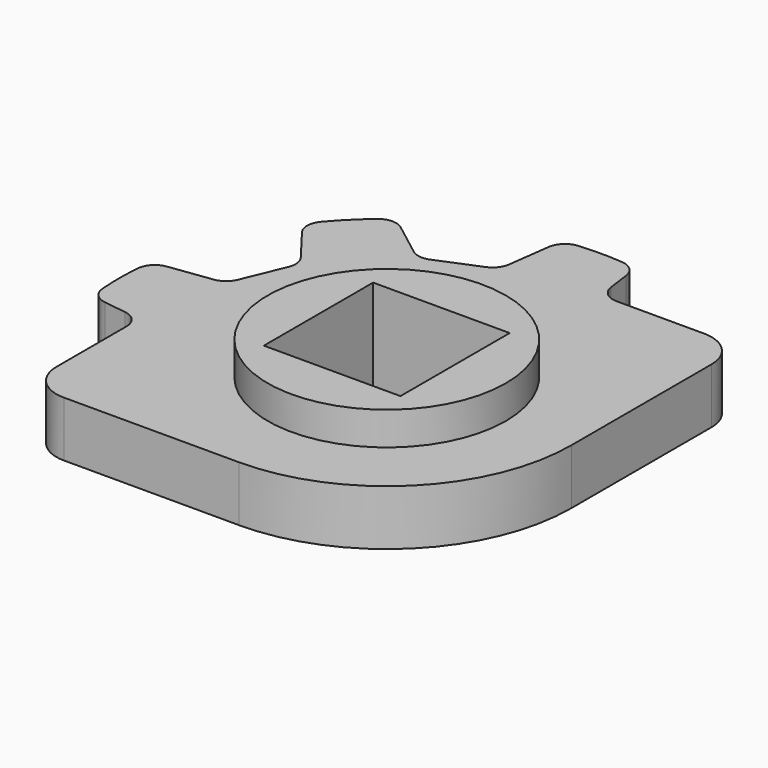
from build123d import *

# Parameters (mm, degrees)
F0_R     = 5.8
F0_W     = 7.4
F0_H     = 7.4
F1_DEPTH = 3.3
F0_R_2   = 6.5
F2_DEPTH = 1.5
F3_R     = 2
F4_R     = 1
F5_R     = 1
F6_R     = 6.45
F6_R_2   = 5.8
F7_DEPTH = 1.8


with BuildPart() as f1:
    # F0 (on Top) → F1 (new body, symmetric)
    with BuildSketch(Plane.XY):
        with Locations((-11.810101, -3.645376)):
            Circle(F0_R)
        with Locations((-11.810101, -3.645376)):
            Rectangle(F0_W, F0_H, mode=Mode.SUBTRACT)
    extrude(amount=F1_DEPTH, both=True)

    # F0 (on Top) → F2 (join, symmetric)
    with BuildSketch(Plane.XY):
        with BuildLine():
            Line((-22.810101, -13.645376), (-11.810101, -13.645376))
            ThreePointArc((-11.810101, -13.645376), (-4.739033, -10.716444), (-1.810101, -3.645376))
            Line((-1.810101, -3.645376), (-1.810101, 7.354624))
            Line((-1.810101, 7.354624), (-1.810101, 7.854624))
            Line((-1.810101, 7.854624), (-9.43136, 7.854624))
            Line((-9.43136, 7.854624), (-9.814863, 10.716693))
            ThreePointArc((-9.814863, 10.716693), (-11.810101, 10.854624), (-13.805339, 10.716693))
            Line((-13.805339, 10.716693), (-14.293907, 7.070533))
            Line((-14.293907, 7.070533), (-17.631077, 5.688232))
            Line((-17.631077, 5.688232), (-20.554771, 7.920986))
            ThreePointArc((-20.554771, 7.920986), (-22.063149, 6.607672), (-23.376464, 5.099294))
            Line((-23.376464, 5.099294), (-21.143709, 2.175599))
            Line((-21.143709, 2.175599), (-22.52601, -1.16157))
            Line((-22.52601, -1.16157), (-26.17217, -1.650138))
            ThreePointArc((-26.17217, -1.650138), (-26.310101, -3.645376), (-26.17217, -5.640615))
            Line((-26.17217, -5.640615), (-23.310101, -6.024118))
            Line((-23.310101, -6.024118), (-23.310101, -13.645376))
            Line((-23.310101, -13.645376), (-22.810101, -13.645376))
        make_face()
        with Locations((-11.810101, -3.645376)):
            Circle(F0_R_2, mode=Mode.SUBTRACT)
        with Locations((-11.810101, -3.645376)):
            Circle(F0_R_2)
        with Locations((-11.810101, -3.645376)):
            Circle(F0_R, mode=Mode.SUBTRACT)
    extrude(amount=F2_DEPTH, both=True)

    # F3
    f3_edges = [f1.edges().sort_by_distance(p)[0] for p in [
        (-23.310101, -13.645376, 0),
        (-1.810101, 7.854624, 0),
    ]]
    fillet(f3_edges, radius=F3_R)

    # F4
    f4_edges = [f1.edges().sort_by_distance(p)[0] for p in [
        (-26.17217, -5.640615, 0),
        (-26.17217, -1.650138, 0),
        (-23.376464, 5.099294, 0),
        (-20.554771, 7.920986, 0),
        (-13.805339, 10.716693, 0),
        (-9.814863, 10.716693, 0),
    ]]
    fillet(f4_edges, radius=F4_R)

    # F5
    f5_edges = [f1.edges().sort_by_distance(p)[0] for p in [
        (-23.310101, -6.024118, 0),
        (-22.52601, -1.16157, 0),
        (-21.143709, 2.175599, 0),
        (-17.631077, 5.688232, 0),
        (-14.293907, 7.070533, 0),
        (-9.43136, 7.854624, 0),
    ]]
    fillet(f5_edges, radius=F5_R)

    # F6 (on face) → F7 (join, through all)
    with BuildSketch(Plane.XY.offset(1.5)):
        with Locations((-11.810101, -3.645376)):
            Circle(F6_R)
        with Locations((-11.810101, -3.645376)):
            Circle(F6_R_2, mode=Mode.SUBTRACT)
    extrude(amount=F7_DEPTH)


solid = f1.part
